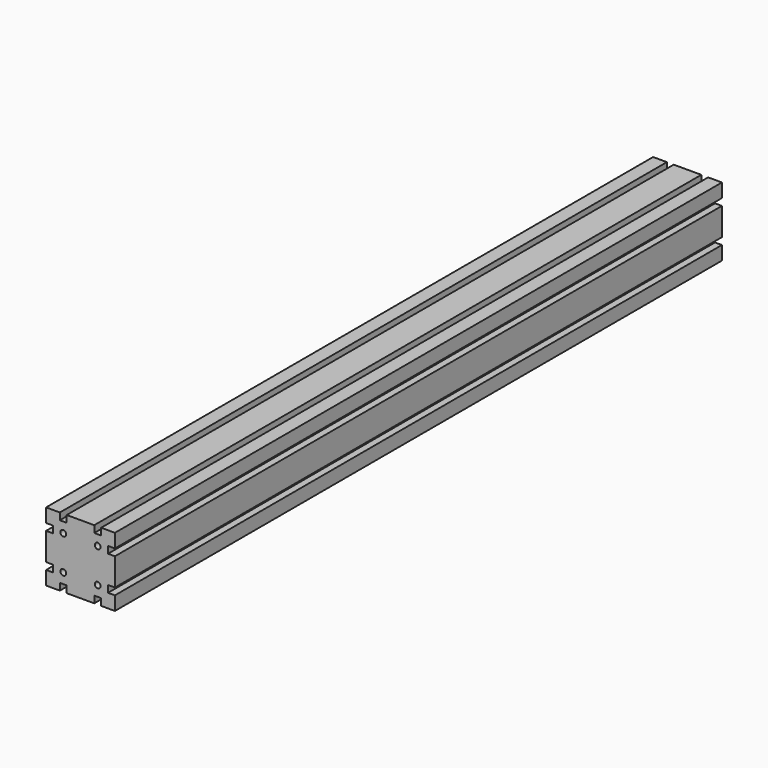
from build123d import *

# Parameters (mm, degrees)
F0_R     = 3.4
F1_DEPTH = 882


with BuildPart() as f1:
    # F0 (on Front) → F1 (new body)
    with BuildSketch(Plane.XZ):
        Polygon((40, 24), (40, 40), (24, 40), (24, 32), (20, 32), (16, 32), (16, 40), (-16, 40), (-16, 32), (-20, 32), (-24, 32), (-24, 40), (-40, 40), (-40, 24), (-32, 24), (-32, 16), (-40, 16), (-40, -16), (-32, -16), (-32, -24), (-40, -24), (-40, -40), (-24, -40), (-24, -32), (-16, -32), (-16, -40), (16, -40), (16, -32), (24, -32), (24, -40), (40, -40), (40, -24), (32, -24), (32, -16), (40, -16), (40, 16), (32, 16), (32, 24), align=None)
        with Locations((-20, -20)):
            Circle(F0_R, mode=Mode.SUBTRACT)
        with Locations((20, -20)):
            Circle(F0_R, mode=Mode.SUBTRACT)
        with BuildLine():
            ThreePointArc((-16.6, 20), (-22.404163, 17.595837), (-20, 23.4))
            ThreePointArc((-20, 23.4), (-17.595837, 22.404163), (-16.6, 20))
        make_face(mode=Mode.SUBTRACT)
        with BuildLine():
            ThreePointArc((23.4, 20), (17.595837, 17.595837), (20, 23.4))
            ThreePointArc((20, 23.4), (22.404163, 22.404163), (23.4, 20))
        make_face(mode=Mode.SUBTRACT)
    extrude(amount=F1_DEPTH)


solid = f1.part
